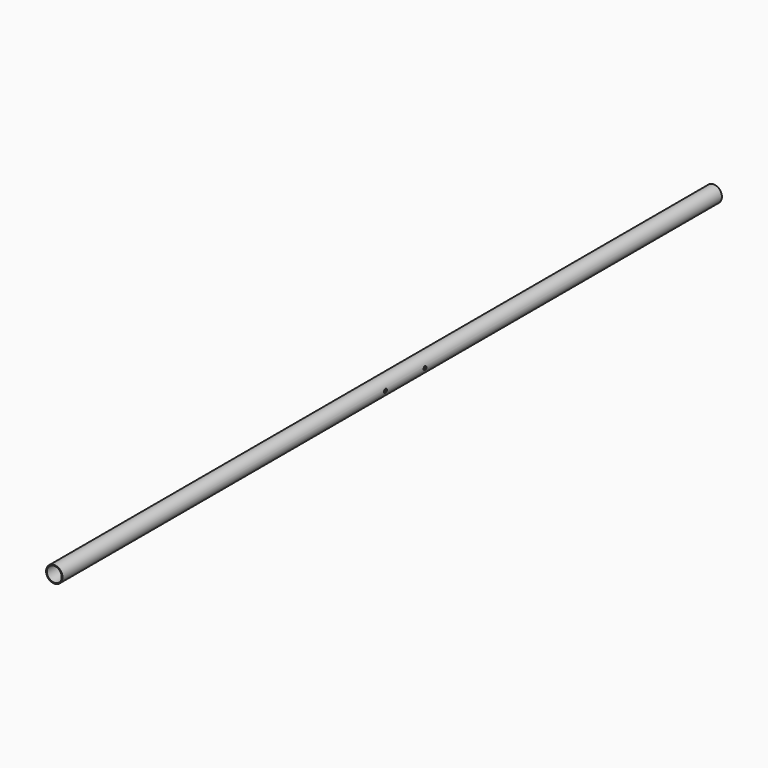
from build123d import *

# Parameters (mm, degrees)
F0_R     = 10
F0_R_2   = 9
F1_DEPTH = 1000
F3_D     = 4.4
F3_DEPTH = 10.001


with BuildPart() as f1:
    # F0 (on Front) → F1 (new body)
    with BuildSketch(Plane.XZ):
        Circle(F0_R)
        Circle(F0_R_2, mode=Mode.SUBTRACT)
    extrude(amount=F1_DEPTH)

    # F3 (through all, one way)
    with BuildSketch(Plane(origin=(0, 0, 0), x_dir=(0, 1, 0), z_dir=(-1, 0, 0))):
        with Locations((-510.20492077, 0), (-450.20492077, 0)):
            Circle(F3_D / 2)
    extrude(amount=-F3_DEPTH, mode=Mode.SUBTRACT)


solid = f1.part
